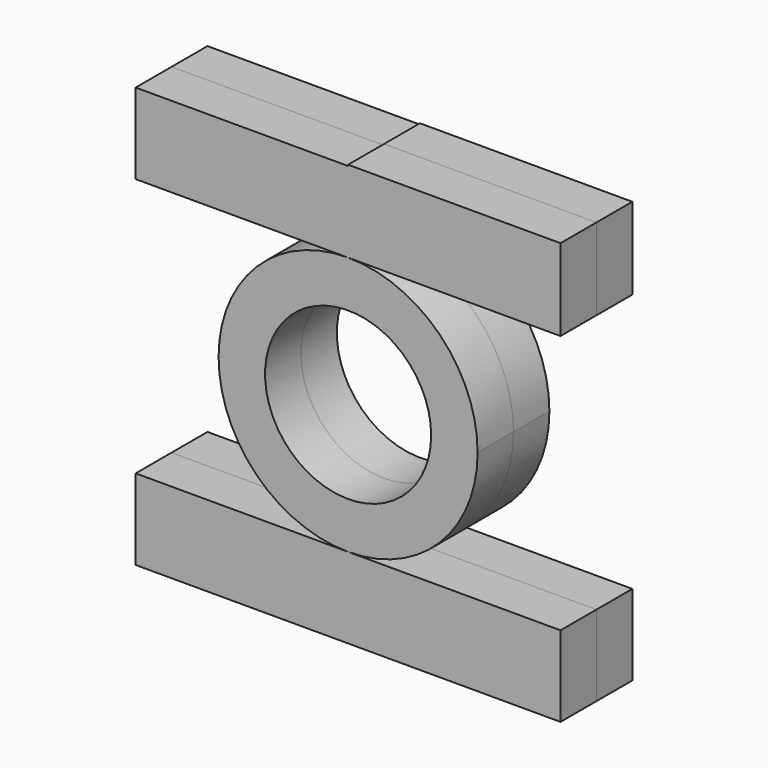
from build123d import *

# Parameters (mm, degrees)
F0_R     = 16.9215961021
F1_DEPTH = 9.144
F0_W     = 43.2765670121
F0_H     = 16.4317270167
F0_W_2   = 43.2816
F0_H_2   = 16.4338
F2_DEPTH = 9.144


with BuildPart() as f1:
    # F0 (on Front) → F1 (new body)
    with BuildSketch(Plane.XZ):
        with BuildLine():
            ThreePointArc((0, -26.3856756144), (18.6574901531, -18.6574901531), (26.3856756144, 0))
            ThreePointArc((26.3856756144, 0), (18.6574901531, 18.6574901531), (0, 26.3856756144))
            ThreePointArc((0, 26.3856756144), (-26.3856756144, 0), (0, -26.3856756144))
        make_face()
        Circle(F0_R, mode=Mode.SUBTRACT)
    extrude(amount=F1_DEPTH)


with BuildPart() as f1b:
    # F0 (on Front) → F1, piece 2 (new body)
    with BuildSketch(Plane.XZ):
        with Locations((-21.638283506, 34.6015391227)):
            Rectangle(F0_W, F0_H)
        Polygon((0, 42.817402631), (0, 26.3856756144), (43.2765781879, 26.3856756144), (43.2765781879, 43.0469885468), (0, 43.0469885468), align=None)
    extrude(amount=F1_DEPTH)


with BuildPart() as f1c:
    # F0 (on Front) → F1, piece 3 (new body)
    with BuildSketch(Plane.XZ):
        with Locations((-21.6408, -34.6025756144)):
            Rectangle(F0_W_2, F0_H_2)
        with Locations((21.6408, -34.6025756144)):
            Rectangle(F0_W_2, F0_H_2)
    extrude(amount=F1_DEPTH)


with BuildPart() as f2:
    # F2 (new): a face of the model
    f2_faces = [f1.part.faces().sort_by_distance(p)[0] for p in [
        (-25.6393760083, 0, 0),
    ]]
    extrude(f2_faces, amount=F2_DEPTH)


with BuildPart() as f2b:
    # F2#2 (new): a face of the model
    f2_2_faces = [f1c.part.faces().sort_by_distance(p)[0] for p in [
        (0, 0, -34.6025756144),
    ]]
    extrude(f2_2_faces, amount=F2_DEPTH)


with BuildPart() as f2c:
    # F2#3 (new): a face of the model
    f2_3_faces = [f1b.part.faces().sort_by_distance(p)[0] for p in [
        (0.1501231287, 0, 34.6593338023),
    ]]
    extrude(f2_3_faces, amount=F2_DEPTH)


solid = Compound([f1.part, f1b.part, f1c.part, f2.part, f2b.part, f2c.part])
